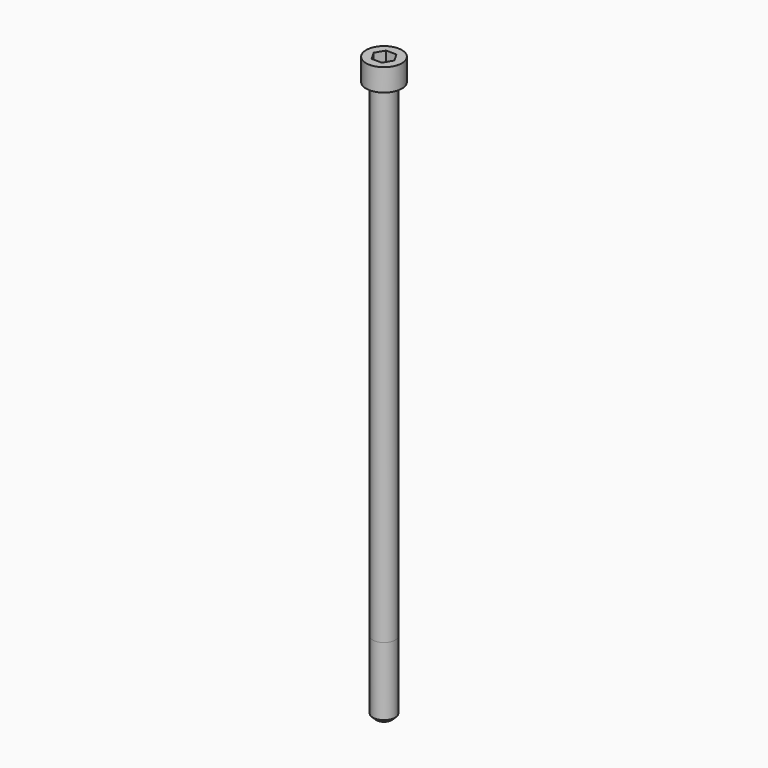
from build123d import *

# Parameters (mm, degrees)
POCKET_DEPTH = 8.07


with BuildPart() as part:
    # Sketch → Revolve (revolve)
    with BuildSketch(Plane.YZ):
        with BuildLine():
            Line((4.999, 0), (8, 0))
            Line((8, 0), (8, 9.97229))
            ThreePointArc((8, 9.97229), (7.991884, 9.991884), (7.97229, 10))
            Line((7.97229, 10), (0, 10))
            Line((0, -250), (0, 10))
            Line((3.5, -250), (0, -250))
            Line((5, -248.5), (3.5, -250))
            Line((5, -218), (5, -248.5))
            Line((4.999, 0), (5, -218))
        make_face()
    revolve(axis=Axis((0, 0, 0), (0, 0, 1)))

    # Sketch001 → Pocket (cut)
    with BuildSketch(Plane.XY.offset(10)):
        Polygon((4.659217, 0), (2.329608, 4.035), (-2.329608, 4.035), (-4.659217, 0), (-2.329608, -4.035), (2.329608, -4.035), align=None)
    extrude(amount=-POCKET_DEPTH, mode=Mode.SUBTRACT)


solid = part.part
